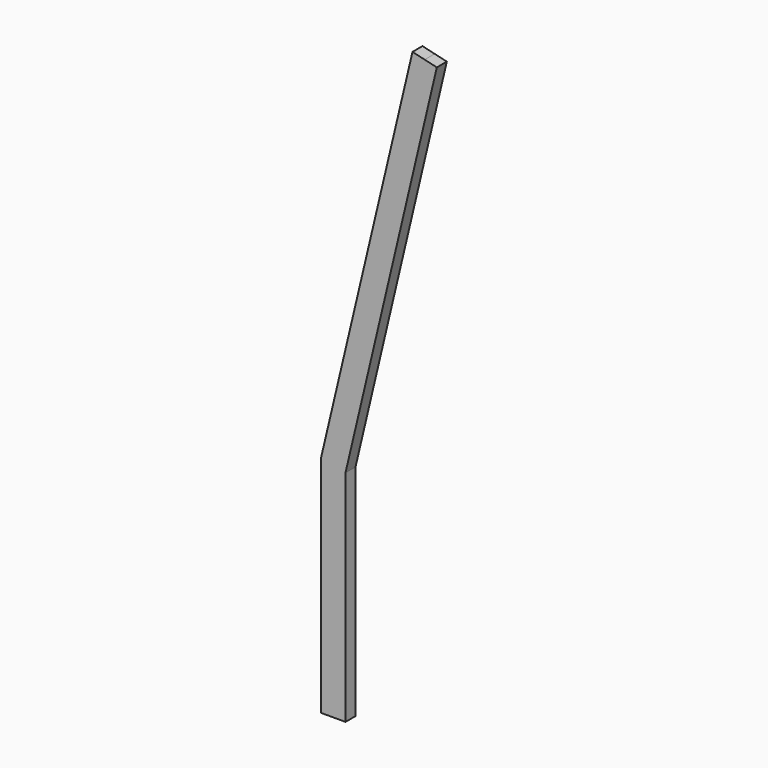
from build123d import *

# Parameters (mm, degrees)
F1_DEPTH = 6.35


with BuildPart() as f1:
    # F0 (on Front) → F1 (new body)
    with BuildSketch(Plane.XZ):
        Polygon((52.898277, 196.296548), (46.718386, 197.756498), (40.538496, 199.216447), (-5.834989, 2.919899), (-5.834989, 1.378469), (0, 0), (6.524792, -1.54143), (6.524792, 0), align=None)
        Polygon((0, 0), (-5.834989, 1.378469), (-5.834989, -111.380101), (6.524792, -111.380101), (6.524792, -1.54143), align=None)
    extrude(amount=F1_DEPTH)


solid = f1.part
